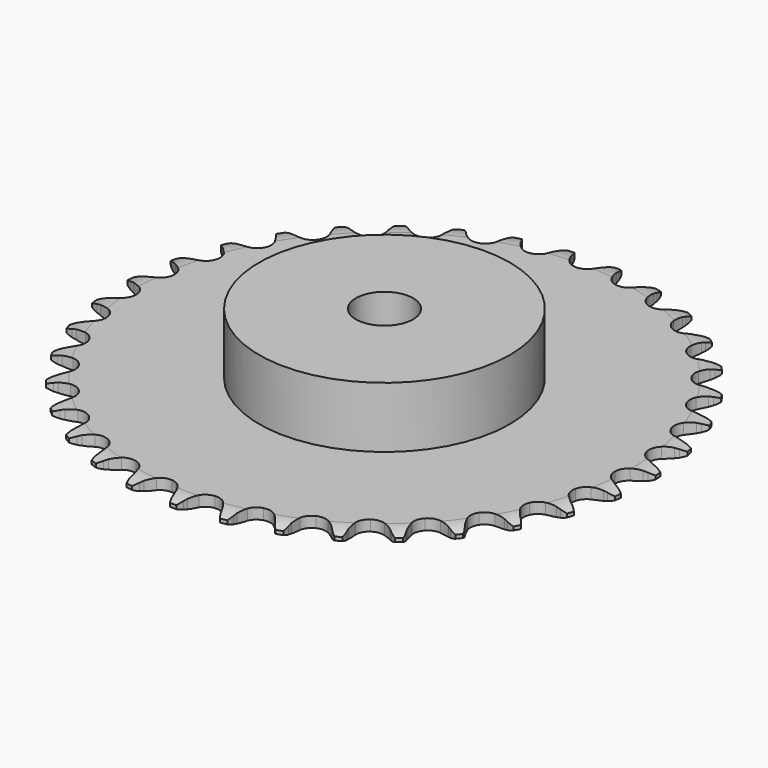
from build123d import *

# Parameters (mm, degrees)
PAD_DEPTH         = 3
SKETCH001_R       = 35
PAD001_DEPTH      = 20
SKETCH002_R       = 8
POCKET_DEPTH      = 0.001
POCKET_DEPTH_BACK = 20.001


with BuildPart() as part:
    # Sprocket → Pad (new body)
    with BuildSketch(Plane.XY):
        with BuildLine():
            ThreePointArc((-6.718012, 74.643227), (-5.648439, 73.461882), (-4.910247, 72.049566))
            Line((-4.910247, 72.049566), (-4.532174, 71.028286))
            ThreePointArc((-4.532174, 71.028286), (-3.933302, 69.708953), (-3.152377, 68.488525))
            ThreePointArc((-3.152377, 68.488525), (-1.763431, 67.324536), (0, 66.906982))
            ThreePointArc((0, 66.906982), (1.763431, 67.324536), (3.152377, 68.488525))
            ThreePointArc((3.152377, 68.488525), (3.933302, 69.708953), (4.532174, 71.028286))
            Line((4.532174, 71.028286), (4.910247, 72.049566))
            ThreePointArc((4.910247, 72.049566), (5.648439, 73.461882), (6.718012, 74.643227))
            ThreePointArc((6.718012, 74.643227), (7.559459, 73.289887), (8.03361, 71.768459))
            Line((8.03361, 71.768459), (8.22325, 70.696084))
            ThreePointArc((8.22325, 70.696084), (8.576922, 69.29102), (9.127382, 67.950765))
            ThreePointArc((9.127382, 67.950765), (10.286168, 66.557476), (11.946703, 65.83176))
            ThreePointArc((11.946703, 65.83176), (13.756352, 65.92773), (15.330815, 66.825008))
            Line((15.330815, 66.825008), (17.141931, 69.077582))
            ThreePointArc((17.141931, 69.077582), (17.406505, 69.553715), (17.696284, 70.014942))
            ThreePointArc((17.696284, 70.014942), (18.674792, 71.272752), (19.938114, 72.244133))
            ThreePointArc((19.938114, 72.244133), (20.52439, 70.762295), (20.719259, 69.180654))
            Line((20.719259, 69.180654), (20.714372, 68.091651))
            ThreePointArc((20.714372, 68.091651), (20.811477, 66.646016), (21.113779, 65.229011))
            ThreePointArc((21.113779, 65.229011), (22.005161, 63.651204), (23.509429, 62.64065))
            ThreePointArc((23.509429, 62.64065), (25.307133, 62.411953), (27.016508, 63.01368))
            Line((27.016508, 63.01368), (29.200731, 64.906667))
            ThreePointArc((29.200731, 64.906667), (29.546071, 65.327906), (29.913548, 65.729979))
            ThreePointArc((29.913548, 65.729979), (31.100921, 66.792856), (32.517388, 67.523052))
            ThreePointArc((32.517388, 67.523052), (32.82965, 65.960344), (32.738975, 64.369325))
            Line((32.738975, 64.369325), (32.539717, 63.298696))
            ThreePointArc((32.539717, 63.298696), (32.377134, 61.858954), (32.421561, 60.410744))
            ThreePointArc((32.421561, 60.410744), (33.016891, 58.699129), (34.316543, 57.436218))
            ThreePointArc((34.316543, 57.436218), (36.044521, 56.890204), (37.833869, 57.17704))
            Line((37.833869, 57.17704), (40.320996, 58.649598))
            ThreePointArc((40.320996, 58.649598), (40.736001, 59.002405), (41.169366, 59.332401))
            ThreePointArc((41.169366, 59.332401), (42.527442, 60.166184), (44.051527, 60.631725))
            ThreePointArc((44.051527, 60.631725), (44.079739, 59.038374), (43.706433, 57.489114))
            Line((43.706433, 57.489114), (43.319209, 56.471269))
            ThreePointArc((43.319209, 56.471269), (42.902163, 55.083695), (42.687288, 53.650825))
            ThreePointArc((42.687288, 53.650825), (42.96743, 51.860417), (44.020695, 50.385739))
            ThreePointArc((44.020695, 50.385739), (45.623409, 49.539958), (47.435218, 49.502684))
            Line((47.435218, 49.502684), (50.145312, 50.507483))
            ThreePointArc((50.145312, 50.507483), (50.616643, 50.780519), (51.101967, 51.027831))
            ThreePointArc((51.101967, 51.027831), (52.587095, 51.60572), (54.169813, 51.791644))
            ThreePointArc((54.169813, 51.791644), (53.913068, 50.218862), (53.26913, 48.761155))
            Line((53.26913, 48.761155), (52.706386, 47.828809))
            ThreePointArc((52.706386, 47.828809), (52.048281, 46.538001), (51.581011, 45.166524))
            ThreePointArc((51.581011, 45.166524), (51.536961, 43.354868), (52.309985, 41.715821))
            ThreePointArc((52.309985, 41.715821), (53.735923, 40.597456), (55.51196, 40.23727))
            Line((55.51196, 40.23727), (58.357915, 40.742016))
            ThreePointArc((58.357915, 40.742016), (58.870425, 40.926504), (59.392108, 41.083184))
            ThreePointArc((59.392108, 41.083184), (60.956556, 41.386607), (62.547037, 41.286938))
            ThreePointArc((62.547037, 41.286938), (62.013587, 39.785274), (61.119714, 38.465973))
            Line((61.119714, 38.465973), (60.399536, 37.649092))
            ThreePointArc((60.399536, 37.649092), (59.521524, 36.496536), (58.816877, 35.230535))
            ThreePointArc((58.816877, 35.230535), (58.450051, 33.455857), (58.91799, 31.705122))
            ThreePointArc((58.91799, 31.705122), (60.121321, 30.350118), (61.804502, 29.678597))
            Line((61.804502, 29.678597), (64.694847, 29.667067))
            ThreePointArc((64.694847, 29.667067), (65.232062, 29.757078), (65.773338, 29.81809))
            ThreePointArc((65.773338, 29.81809), (67.366823, 29.837294), (68.913948, 29.455235))
            ThreePointArc((68.913948, 29.455235), (68.120938, 28.072955), (67.00586, 26.934463))
            Line((67.00586, 26.934463), (66.151396, 26.259302))
            ThreePointArc((66.151396, 26.259302), (65.081697, 25.282043), (64.16232, 24.162207))
            ThreePointArc((64.16232, 24.162207), (63.484509, 22.481548), (63.632322, 20.675395))
            ThreePointArc((63.632322, 20.675395), (64.574369, 19.127303), (66.110596, 18.16603))
            Line((66.110596, 18.16603), (68.952434, 17.638594))
            ThreePointArc((68.952434, 17.638594), (69.497088, 17.631235), (70.040559, 17.594618))
            ThreePointArc((70.040559, 17.594618), (71.611865, 17.328985), (73.065908, 16.676817))
            ThreePointArc((73.065908, 16.676817), (72.038826, 15.458348), (70.738382, 14.537257))
            Line((70.738382, 14.537257), (69.777095, 14.025516))
            ThreePointArc((69.777095, 14.025516), (68.550091, 13.254965), (67.445534, 12.317285))
            ThreePointArc((67.445534, 12.317285), (66.478522, 10.784664), (66.301458, 8.981143))
            ThreePointArc((66.301458, 8.981143), (66.951944, 7.289721), (68.291842, 6.069592))
            Line((68.291842, 6.069592), (70.993832, 5.043202))
            ThreePointArc((70.993832, 5.043202), (71.528419, 4.93871), (72.056619, 4.805641))
            ThreePointArc((72.056619, 4.805641), (73.555243, 4.263709), (74.869469, 3.362392))
            ThreePointArc((74.869469, 3.362392), (73.641327, 2.346897), (72.197315, 1.672811))
            Line((72.197315, 1.672811), (71.160101, 1.340939))
            ThreePointArc((71.160101, 1.340939), (69.815228, 0.801861), (68.560993, 0.076476))
            ThreePointArc((68.560993, 0.076476), (67.335861, -1.258848), (66.839611, -3.00177))
            ThreePointArc((66.839611, -3.00177), (67.177629, -4.782159), (68.278131, -6.221928))
            Line((68.278131, -6.221928), (70.75343, -7.714283))
            ThreePointArc((70.75343, -7.714283), (71.260769, -7.91255), (71.75672, -8.137794))
            ThreePointArc((71.75672, -8.137794), (73.134494, -8.938606), (74.266664, -10.060103))
            ThreePointArc((74.266664, -10.060103), (72.876935, -10.839986), (71.335766, -11.2454))
            Line((71.335766, -11.2454), (70.255963, -11.386737))
            ThreePointArc((70.255963, -11.386737), (68.836446, -11.677016), (67.472845, -12.166791))
            ThreePointArc((67.472845, -12.166791), (66.02897, -13.261901), (65.229485, -14.888204))
            ThreePointArc((65.229485, -14.888204), (65.244169, -16.700337), (66.069905, -18.313471))
            Line((66.069905, -18.313471), (68.238955, -20.223824))
            ThreePointArc((68.238955, -20.223824), (68.702739, -20.509494), (69.150501, -20.819673))
            ThreePointArc((69.150501, -20.819673), (70.363143, -21.853628), (71.276867, -23.159258))
            ThreePointArc((71.276867, -23.159258), (69.770219, -23.678462), (68.181427, -23.802175))
            Line((68.181427, -23.802175), (67.09374, -23.748434))
            ThreePointArc((67.09374, -23.748434), (65.645205, -23.780583), (64.216064, -24.019007))
            ThreePointArc((64.216064, -24.019007), (62.599853, -24.838704), (61.522828, -26.296119))
            ThreePointArc((61.522828, -26.296119), (61.213708, -28.081752), (61.738138, -29.816403))
            Line((61.738138, -29.816403), (63.531224, -32.083355))
            ThreePointArc((63.531224, -32.083355), (63.936546, -32.447245), (64.321727, -32.832391))
            ThreePointArc((64.321727, -32.832391), (65.330263, -34.066255), (65.996174, -35.514055))
            ThreePointArc((65.996174, -35.514055), (64.42103, -35.755893), (62.835681, -35.593928))
            Line((62.835681, -35.593928), (61.775069, -35.346837))
            ThreePointArc((61.775069, -35.346837), (60.344072, -35.119824), (58.895326, -35.099233))
            ThreePointArc((58.895326, -35.099233), (57.158726, -35.617171), (55.838778, -36.858855))
            ThreePointArc((55.838778, -36.858855), (55.215788, -38.560596), (55.422057, -40.361011))
            Line((55.422057, -40.361011), (56.781547, -42.9117))
            ThreePointArc((56.781547, -42.9117), (57.11538, -43.342116), (57.425601, -43.789849))
            ThreePointArc((57.425601, -43.789849), (58.197614, -45.183965), (58.594308, -46.727402))
            ThreePointArc((58.594308, -46.727402), (57.001296, -46.6841), (55.470345, -46.241663))
            Line((55.470345, -46.241663), (54.470897, -45.809163))
            ThreePointArc((54.470897, -45.809163), (53.103431, -45.330284), (51.681644, -45.05134))
            ThreePointArc((51.681644, -45.05134), (49.88047, -45.250873), (48.360023, -46.236916))
            ThreePointArc((48.360023, -46.236916), (47.443188, -47.800071), (47.324665, -49.608383))
            Line((47.324665, -49.608383), (48.206864, -52.360828))
            ThreePointArc((48.206864, -52.360828), (48.458479, -52.843935), (48.683768, -53.339865))
            ThreePointArc((48.683768, -53.339865), (49.194446, -54.849425), (49.309174, -56.438891))
            ThreePointArc((49.309174, -56.438891), (47.749494, -56.111842), (46.322146, -55.403153))
            Line((46.322146, -55.403153), (45.415985, -54.799146))
            ThreePointArc((45.415985, -54.799146), (44.156003, -54.083791), (42.806871, -53.55546))
            ThreePointArc((42.806871, -53.55546), (40.999015, -53.430175), (39.326938, -54.128886))
            ThreePointArc((39.326938, -54.128886), (38.145724, -55.503213), (37.706219, -57.261301))
            Line((37.706219, -57.261301), (38.082773, -60.127036))
            ThreePointArc((38.082773, -60.127036), (38.244082, -60.647307), (38.377199, -61.175494))
            ThreePointArc((38.377199, -61.175494), (38.610128, -62.75198), (38.439202, -64.336388))
            ThreePointArc((38.439202, -64.336388), (36.962984, -63.736103), (35.685115, -62.78394))
            Line((35.685115, -62.78394), (34.901367, -62.027838))
            ThreePointArc((34.901367, -62.027838), (33.789364, -61.099001), (32.556251, -60.338264))
            ThreePointArc((32.556251, -60.338264), (30.799818, -59.892187), (29.029852, -60.281108))
            ThreePointArc((29.029852, -60.281108), (27.622225, -61.422435), (26.875864, -63.073794))
            Line((26.875864, -63.073794), (26.73467, -65.960712))
            ThreePointArc((26.73467, -65.960712), (26.800489, -66.501424), (26.837156, -67.044892))
            ThreePointArc((26.837156, -67.044892), (26.784848, -68.637634), (26.333763, -70.16606))
            ThreePointArc((26.333763, -70.16606), (24.988453, -69.311833), (23.901135, -68.1468))
            Line((23.901135, -68.1468), (23.264989, -67.262905))
            ThreePointArc((23.264989, -67.262905), (22.336707, -66.150439), (21.259245, -65.181746))
            ThreePointArc((21.259245, -65.181746), (19.610689, -64.429215), (17.799723, -64.495846))
            ThreePointArc((17.799723, -64.495846), (16.210925, -65.36749), (15.181697, -66.859043))
            Line((15.181697, -66.859043), (14.527293, -69.674356))
            ThreePointArc((14.527293, -69.674356), (14.495507, -70.218131), (14.434544, -70.759413))
            ThreePointArc((14.434544, -70.759413), (14.098682, -72.317219), (13.381935, -73.740538))
            ThreePointArc((13.381935, -73.740538), (12.210772, -72.659824), (11.348953, -71.319365))
            Line((11.348953, -71.319365), (10.880856, -70.336086))
            ThreePointArc((10.880856, -70.336086), (10.16613, -69.075747), (9.27895, -67.930234))
            ThreePointArc((9.27895, -67.930234), (7.791257, -66.895435), (5.997496, -66.637635))
            ThreePointArc((5.997496, -66.637635), (4.278593, -67.21158), (2.999578, -68.495388))
            Line((2.999578, -68.495388), (1.852997, -71.148608))
            ThreePointArc((1.852997, -71.148608), (1.724626, -71.677969), (1.567994, -72.199667))
            ThreePointArc((1.567994, -72.199667), (0.959372, -73.672468), (0, -74.944934))
            ThreePointArc((0, -74.944934), (-0.959372, -73.672468), (-1.567994, -72.199667))
            Line((-1.567994, -72.199667), (-1.852997, -71.148608))
            ThreePointArc((-1.852997, -71.148608), (-2.331195, -69.780904), (-2.999578, -68.495388))
            ThreePointArc((-2.999578, -68.495388), (-4.278593, -67.21158), (-5.997496, -66.637635))
            ThreePointArc((-5.997496, -66.637635), (-7.791257, -66.895435), (-9.27895, -67.930234))
            Line((-9.27895, -67.930234), (-10.880856, -70.336086))
            ThreePointArc((-10.880856, -70.336086), (-11.101685, -70.834019), (-11.348953, -71.319365))
            ThreePointArc((-11.348953, -71.319365), (-12.210772, -72.659824), (-13.381935, -73.740538))
            ThreePointArc((-13.381935, -73.740538), (-14.098682, -72.317219), (-14.434544, -70.759413))
            Line((-14.434544, -70.759413), (-14.527293, -69.674356))
            ThreePointArc((-14.527293, -69.674356), (-14.753593, -68.243245), (-15.181697, -66.859043))
            ThreePointArc((-15.181697, -66.859043), (-16.210925, -65.36749), (-17.799723, -64.495846))
            ThreePointArc((-17.799723, -64.495846), (-19.610689, -64.429215), (-21.259245, -65.181746))
            Line((-21.259245, -65.181746), (-23.264989, -67.262905))
            ThreePointArc((-23.264989, -67.262905), (-23.571179, -67.713405), (-23.901135, -68.1468))
            ThreePointArc((-23.901135, -68.1468), (-24.988453, -69.311833), (-26.333763, -70.16606))
            ThreePointArc((-26.333763, -70.16606), (-26.784848, -68.637634), (-26.837156, -67.044892))
            Line((-26.837156, -67.044892), (-26.73467, -65.960712))
            ThreePointArc((-26.73467, -65.960712), (-26.701799, -64.512192), (-26.875864, -63.073794))
            ThreePointArc((-26.875864, -63.073794), (-27.622225, -61.422435), (-29.029852, -60.281108))
            ThreePointArc((-29.029852, -60.281108), (-30.799818, -59.892187), (-32.556251, -60.338264))
            Line((-32.556251, -60.338264), (-34.901367, -62.027838))
            ThreePointArc((-34.901367, -62.027838), (-35.283075, -62.416426), (-35.685115, -62.78394))
            ThreePointArc((-35.685115, -62.78394), (-36.962984, -63.736103), (-38.439202, -64.336388))
            ThreePointArc((-38.439202, -64.336388), (-38.610128, -62.75198), (-38.377199, -61.175494))
            Line((-38.377199, -61.175494), (-38.082773, -60.127036))
            ThreePointArc((-38.082773, -60.127036), (-37.791787, -58.707665), (-37.706219, -57.261301))
            ThreePointArc((-37.706219, -57.261301), (-38.145724, -55.503213), (-39.326938, -54.128886))
            ThreePointArc((-39.326938, -54.128886), (-40.999015, -53.430175), (-42.806871, -53.55546))
            Line((-42.806871, -53.55546), (-45.415985, -54.799146))
            ThreePointArc((-45.415985, -54.799146), (-45.860945, -55.113332), (-46.322146, -55.403153))
            ThreePointArc((-46.322146, -55.403153), (-47.749494, -56.111842), (-49.309174, -56.438891))
            ThreePointArc((-49.309174, -56.438891), (-49.194446, -54.849425), (-48.683768, -53.339865))
            Line((-48.683768, -53.339865), (-48.206864, -52.360828))
            ThreePointArc((-48.206864, -52.360828), (-47.667116, -51.016224), (-47.324665, -49.608383))
            ThreePointArc((-47.324665, -49.608383), (-47.443188, -47.800071), (-48.360023, -46.236916))
            ThreePointArc((-48.360023, -46.236916), (-49.88047, -45.250873), (-51.681644, -45.05134))
            Line((-51.681644, -45.05134), (-54.470897, -45.809163))
            ThreePointArc((-54.470897, -45.809163), (-54.964806, -46.03885), (-55.470345, -46.241663))
            ThreePointArc((-55.470345, -46.241663), (-57.001296, -46.6841), (-58.594308, -46.727402))
            ThreePointArc((-58.594308, -46.727402), (-58.197614, -45.183965), (-57.425601, -43.789849))
            Line((-57.425601, -43.789849), (-56.781547, -42.9117))
            ThreePointArc((-56.781547, -42.9117), (-56.010384, -41.68508), (-55.422057, -40.361011))
            ThreePointArc((-55.422057, -40.361011), (-55.215788, -38.560596), (-55.838778, -36.858855))
            ThreePointArc((-55.838778, -36.858855), (-57.158726, -35.617171), (-58.895326, -35.099233))
            Line((-58.895326, -35.099233), (-61.775069, -35.346837))
            ThreePointArc((-61.775069, -35.346837), (-62.302053, -35.484642), (-62.835681, -35.593928))
            ThreePointArc((-62.835681, -35.593928), (-64.42103, -35.755893), (-65.996174, -35.514055))
            ThreePointArc((-65.996174, -35.514055), (-65.330263, -34.066255), (-64.321727, -32.832391))
            Line((-64.321727, -32.832391), (-63.531224, -32.083355))
            ThreePointArc((-63.531224, -32.083355), (-62.553433, -31.014144), (-61.738138, -29.816403))
            ThreePointArc((-61.738138, -29.816403), (-61.213708, -28.081752), (-61.522828, -26.296119))
            ThreePointArc((-61.522828, -26.296119), (-62.599853, -24.838704), (-64.216064, -24.019007))
            Line((-64.216064, -24.019007), (-67.09374, -23.748434))
            ThreePointArc((-67.09374, -23.748434), (-67.636861, -23.789928), (-68.181427, -23.802175))
            ThreePointArc((-68.181427, -23.802175), (-69.770219, -23.678462), (-71.276867, -23.159258))
            ThreePointArc((-71.276867, -23.159258), (-70.363143, -21.853628), (-69.150501, -20.819673))
            Line((-69.150501, -20.819673), (-68.238955, -20.223824))
            ThreePointArc((-68.238955, -20.223824), (-67.085962, -19.346387), (-66.069905, -18.313471))
            ThreePointArc((-66.069905, -18.313471), (-65.244169, -16.700337), (-65.229485, -14.888204))
            ThreePointArc((-65.229485, -14.888204), (-66.02897, -13.261901), (-67.472845, -12.166791))
            Line((-67.472845, -12.166791), (-70.255963, -11.386737))
            ThreePointArc((-70.255963, -11.386737), (-70.797765, -11.330586), (-71.335766, -11.2454))
            ThreePointArc((-71.335766, -11.2454), (-72.876935, -10.839986), (-74.266664, -10.060103))
            ThreePointArc((-74.266664, -10.060103), (-73.134494, -8.938606), (-71.75672, -8.137794))
            Line((-71.75672, -8.137794), (-70.75343, -7.714283))
            ThreePointArc((-70.75343, -7.714283), (-69.462294, -7.056821), (-68.278131, -6.221928))
            ThreePointArc((-68.278131, -6.221928), (-67.177629, -4.782159), (-66.839611, -3.00177))
            ThreePointArc((-66.839611, -3.00177), (-67.335861, -1.258848), (-68.560993, 0.076476))
            Line((-68.560993, 0.076476), (-71.160101, 1.340939))
            ThreePointArc((-71.160101, 1.340939), (-71.68317, 1.49293), (-72.197315, 1.672811))
            ThreePointArc((-72.197315, 1.672811), (-73.641327, 2.346897), (-74.869469, 3.362392))
            ThreePointArc((-74.869469, 3.362392), (-73.555243, 4.263709), (-72.056619, 4.805641))
            Line((-72.056619, 4.805641), (-70.993832, 5.043202))
            ThreePointArc((-70.993832, 5.043202), (-69.606051, 5.459556), (-68.291842, 6.069592))
            ThreePointArc((-68.291842, 6.069592), (-66.951944, 7.289721), (-66.301458, 8.981143))
            ThreePointArc((-66.301458, 8.981143), (-66.478522, 10.784664), (-67.445534, 12.317285))
            Line((-67.445534, 12.317285), (-69.777095, 14.025516))
            ThreePointArc((-69.777095, 14.025516), (-70.264619, 14.268462), (-70.738382, 14.537257))
            ThreePointArc((-70.738382, 14.537257), (-72.038826, 15.458348), (-73.065908, 16.676817))
            ThreePointArc((-73.065908, 16.676817), (-71.611865, 17.328985), (-70.040559, 17.594618))
            Line((-70.040559, 17.594618), (-68.952434, 17.638594))
            ThreePointArc((-68.952434, 17.638594), (-67.512611, 17.800459), (-66.110596, 18.16603))
            ThreePointArc((-66.110596, 18.16603), (-64.574369, 19.127303), (-63.632322, 20.675395))
            ThreePointArc((-63.632322, 20.675395), (-63.484509, 22.481548), (-64.16232, 24.162207))
            Line((-64.16232, 24.162207), (-66.151396, 26.259302))
            ThreePointArc((-66.151396, 26.259302), (-66.587705, 26.585394), (-67.00586, 26.934463))
            ThreePointArc((-67.00586, 26.934463), (-68.120938, 28.072955), (-68.913948, 29.455235))
            ThreePointArc((-68.913948, 29.455235), (-67.366823, 29.837294), (-65.773338, 29.81809))
            Line((-65.773338, 29.81809), (-64.694847, 29.667067))
            ThreePointArc((-64.694847, 29.667067), (-63.249261, 29.569241), (-61.804502, 29.678597))
            ThreePointArc((-61.804502, 29.678597), (-60.121321, 30.350118), (-58.91799, 31.705122))
            ThreePointArc((-58.91799, 31.705122), (-58.450051, 33.455857), (-58.816877, 35.230535))
            Line((-58.816877, 35.230535), (-60.399536, 37.649092))
            ThreePointArc((-60.399536, 37.649092), (-60.770608, 38.04785), (-61.119714, 38.465973))
            ThreePointArc((-61.119714, 38.465973), (-62.013587, 39.785274), (-62.547037, 41.286938))
            ThreePointArc((-62.547037, 41.286938), (-60.956556, 41.386607), (-59.392108, 41.083184))
            Line((-59.392108, 41.083184), (-58.357915, 40.742016))
            ThreePointArc((-58.357915, 40.742016), (-56.953028, 40.387642), (-55.51196, 40.23727))
            ThreePointArc((-55.51196, 40.23727), (-53.735923, 40.597456), (-52.309985, 41.715821))
            ThreePointArc((-52.309985, 41.715821), (-51.536961, 43.354868), (-51.581011, 45.166524))
            Line((-51.581011, 45.166524), (-52.706386, 47.828809))
            ThreePointArc((-52.706386, 47.828809), (-53.000293, 48.287416), (-53.26913, 48.761155))
            ThreePointArc((-53.26913, 48.761155), (-53.913068, 50.218862), (-54.169813, 51.791644))
            ThreePointArc((-54.169813, 51.791644), (-52.587095, 51.60572), (-51.101967, 51.027831))
            Line((-51.101967, 51.027831), (-50.145312, 50.507483))
            ThreePointArc((-50.145312, 50.507483), (-48.826277, 49.907952), (-47.435218, 49.502684))
            ThreePointArc((-47.435218, 49.502684), (-45.623409, 49.539958), (-44.020695, 50.385739))
            ThreePointArc((-44.020695, 50.385739), (-42.96743, 51.860417), (-42.687288, 53.650825))
            Line((-42.687288, 53.650825), (-43.319209, 56.471269))
            ThreePointArc((-43.319209, 56.471269), (-43.526505, 56.974985), (-43.706433, 57.489114))
            ThreePointArc((-43.706433, 57.489114), (-44.079739, 59.038374), (-44.051527, 60.631725))
            ThreePointArc((-44.051527, 60.631725), (-42.527442, 60.166184), (-41.169366, 59.332401))
            Line((-41.169366, 59.332401), (-40.320996, 58.649598))
            ThreePointArc((-40.320996, 58.649598), (-39.13021, 57.824179), (-37.833869, 57.17704))
            ThreePointArc((-37.833869, 57.17704), (-36.044521, 56.890204), (-34.316543, 57.436218))
            ThreePointArc((-34.316543, 57.436218), (-33.016891, 58.699129), (-32.421561, 60.410744))
            Line((-32.421561, 60.410744), (-32.539717, 63.298696))
            ThreePointArc((-32.539717, 63.298696), (-32.65374, 63.831332), (-32.738975, 64.369325))
            ThreePointArc((-32.738975, 64.369325), (-32.82965, 65.960344), (-32.517388, 67.523052))
            ThreePointArc((-32.517388, 67.523052), (-31.100921, 66.792856), (-29.913548, 65.729979))
            Line((-29.913548, 65.729979), (-29.200731, 64.906667))
            ThreePointArc((-29.200731, 64.906667), (-28.176465, 63.88189), (-27.016508, 63.01368))
            ThreePointArc((-27.016508, 63.01368), (-25.307133, 62.411953), (-23.509429, 62.64065))
            ThreePointArc((-23.509429, 62.64065), (-22.005161, 63.651204), (-21.113779, 65.229011))
            Line((-21.113779, 65.229011), (-20.714372, 68.091651))
            ThreePointArc((-20.714372, 68.091651), (-20.731457, 68.636086), (-20.719259, 69.180654))
            ThreePointArc((-20.719259, 69.180654), (-20.52439, 70.762295), (-19.938114, 72.244133))
            ThreePointArc((-19.938114, 72.244133), (-18.674792, 71.272752), (-17.696284, 70.014942))
            Line((-17.696284, 70.014942), (-17.141931, 69.077582))
            ThreePointArc((-17.141931, 69.077582), (-16.317106, 67.886384), (-15.330815, 66.825008))
            ThreePointArc((-15.330815, 66.825008), (-13.756352, 65.92773), (-11.946703, 65.83176))
            ThreePointArc((-11.946703, 65.83176), (-10.286168, 66.557476), (-9.127382, 67.950765))
            Line((-9.127382, 67.950765), (-8.22325, 70.696084))
            ThreePointArc((-8.22325, 70.696084), (-8.142847, 71.234821), (-8.03361, 71.768459))
            ThreePointArc((-8.03361, 71.768459), (-7.559459, 73.289887), (-6.718012, 74.643227))
        make_face()
    extrude(amount=PAD_DEPTH)

    # Sketch → Groove (revolve, cut)
    with BuildSketch(Plane.XZ):
        with BuildLine():
            Line((68.8, 0), (73.8, 0))
            Line((78.8, 0), (73.8, 0))
            Line((78.8, 3), (78.8, 0))
            Line((73.8, 3), (78.8, 3))
            Line((68.8, 3), (73.8, 3))
            ThreePointArc((73.8, 2), (71.34951, 2.747549), (68.8, 3))
            Line((73.8, 1), (73.8, 2))
            ThreePointArc((68.8, 0), (71.34951, 0.252451), (73.8, 1))
        make_face()
    revolve(axis=Axis((0, 0, 0), (0, 0, 1)), mode=Mode.SUBTRACT)

    # Sketch001 → Pad001 (join)
    with BuildSketch(Plane.XY):
        Circle(SKETCH001_R)
    extrude(amount=PAD001_DEPTH)

    # Sketch002 → Pocket (cut, two sides)
    with BuildSketch(Plane.XY) as pocket_sk:
        Circle(SKETCH002_R)
    extrude(amount=-POCKET_DEPTH, mode=Mode.SUBTRACT)
    extrude(pocket_sk.sketch, amount=POCKET_DEPTH_BACK, mode=Mode.SUBTRACT)


solid = part.part
